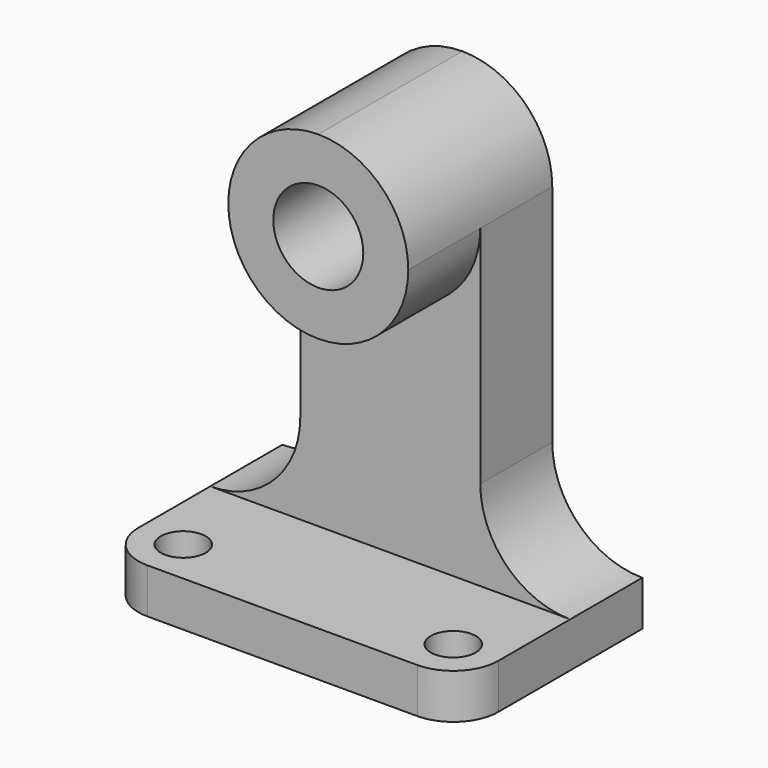
from build123d import *

# Parameters (mm, degrees)
F0_W      = 50.8
F0_H      = 63.5
F1_DEPTH  = 31.75
F3_DEPTH  = 50.8
F5_DEPTH  = 12.7
F7_DEPTH  = 12.7
F6_R      = 6.35
F8_DEPTH  = 25.4
F9_R      = 3.175
F10_DEPTH = 6.35


with BuildPart() as f1:
    # F0 (on Front) → F1 (new body)
    with BuildSketch(Plane.XZ):
        with Locations((25.4, 31.75)):
            Rectangle(F0_W, F0_H)
    extrude(amount=F1_DEPTH)

    # F2 (on face) → F3 (cut)
    with BuildSketch(Plane.YZ.offset(50.8)):
        Polygon((-31.75, 63.5), (-31.75, 6.35), (-12.7, 6.35), (-12.7, 38.1), (-25.4, 38.1), (-25.4, 63.5), align=None)
    extrude(amount=-F3_DEPTH, mode=Mode.SUBTRACT)

    # F4 (on face) → F5 (cut)
    with BuildSketch(Plane.XZ.offset(12.7)):
        with BuildLine():
            Line((12.7, 19.05), (12.7, 38.1))
            Line((12.7, 38.1), (0, 38.1))
            Line((0, 38.1), (0, 6.35))
            ThreePointArc((0, 6.35), (8.9802561211, 10.0697438789), (12.7, 19.05))
        make_face()
        with BuildLine():
            Line((50.8, 6.35), (50.8, 38.1))
            Line((50.8, 38.1), (38.1, 38.1))
            Line((38.1, 38.1), (38.1, 19.05))
            ThreePointArc((38.1, 19.05), (41.8197438789, 10.0697438789), (50.8, 6.35))
        make_face()
    extrude(amount=-F5_DEPTH, mode=Mode.SUBTRACT)

    # F6 (on face) → F7 (cut)
    with BuildSketch(Plane.XZ.offset(25.4)):
        with BuildLine():
            ThreePointArc((38.1, 50.8), (34.3802561211, 41.8197438789), (25.4, 38.1))
            Line((25.4, 38.1), (38.1, 38.1))
            Line((38.1, 38.1), (38.1, 50.8))
        make_face()
        with BuildLine():
            Line((12.7, 50.8), (12.7, 38.1))
            Line((12.7, 38.1), (25.4, 38.1))
            ThreePointArc((25.4, 38.1), (16.4197438789, 41.8197438789), (12.7, 50.8))
        make_face()
    extrude(amount=-F7_DEPTH, mode=Mode.SUBTRACT)

    # F6 (on face) → F8 (cut)
    with BuildSketch(Plane.XZ.offset(25.4)):
        with Locations((25.4, 50.8)):
            Circle(F6_R)
        Polygon((0, 63.5), (0, 38.1), (12.7, 38.1), (12.7, 50.8), (12.7, 63.5), align=None)
        Polygon((38.1, 63.5), (38.1, 50.8), (38.1, 38.1), (50.8, 38.1), (50.8, 63.5), align=None)
        with BuildLine():
            Line((38.1, 63.5), (25.4, 63.5))
            ThreePointArc((25.4, 63.5), (34.3802561211, 59.7802561211), (38.1, 50.8))
            Line((38.1, 50.8), (38.1, 63.5))
        make_face()
        with BuildLine():
            Line((12.7, 63.5), (12.7, 50.8))
            ThreePointArc((12.7, 50.8), (16.4197438789, 59.7802561211), (25.4, 63.5))
            Line((25.4, 63.5), (12.7, 63.5))
        make_face()
    extrude(amount=-F8_DEPTH, mode=Mode.SUBTRACT)

    # F9 (on face) → F10 (cut)
    with BuildSketch(Plane.XY.offset(6.35)):
        with Locations((6.35, -25.4)):
            Circle(F9_R)
        with Locations((44.45, -25.4)):
            Circle(F9_R)
        with BuildLine():
            ThreePointArc((6.35, -31.75), (1.8598719395, -29.8901280605), (0, -25.4))
            Line((0, -25.4), (0, -31.75))
            Line((0, -31.75), (6.35, -31.75))
        make_face()
        with BuildLine():
            ThreePointArc((50.8, -25.4), (48.9401280605, -29.8901280605), (44.45, -31.75))
            Line((44.45, -31.75), (50.8, -31.75))
            Line((50.8, -31.75), (50.8, -25.4))
        make_face()
    extrude(amount=-F10_DEPTH, mode=Mode.SUBTRACT)


solid = f1.part
